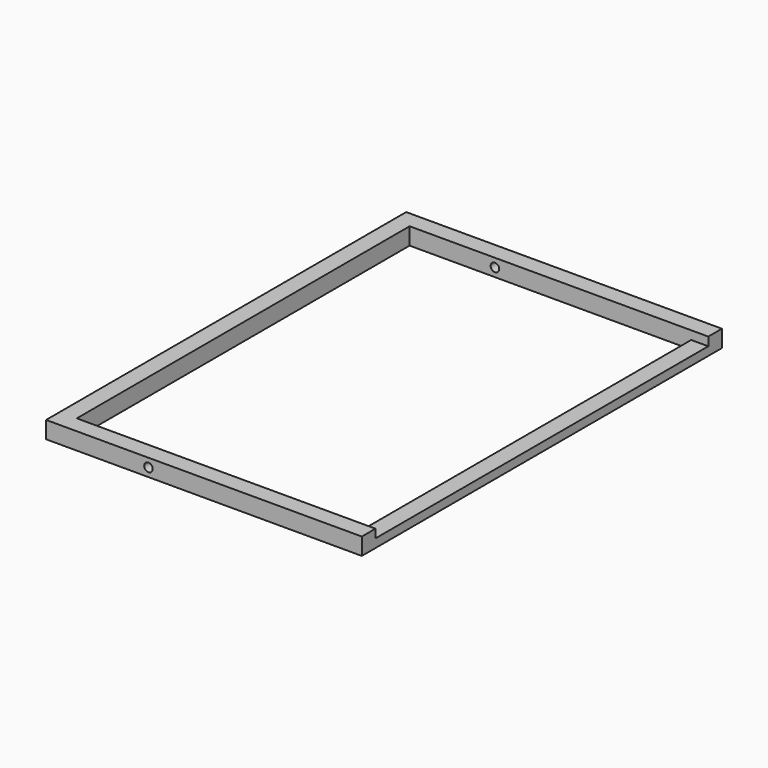
from build123d import *

# Parameters (mm, degrees)
F1_DEPTH = 25.4
F0_W     = 25.4
F0_H     = 619.125
F2_DEPTH = 12.7
F3_R     = 6.35
F4_DEPTH = 762


with BuildPart() as f1:
    # F0 (on Top) → F1 (new body)
    with BuildSketch(Plane.XY):
        Polygon((234.95, 334.9625), (-234.95, 334.9625), (-234.95, -334.9625), (234.95, -334.9625), (234.95, -309.5625), (209.55, -309.5625), (-209.55, -309.5625), (-209.55, 309.5625), (209.55, 309.5625), (234.95, 309.5625), align=None)
    extrude(amount=F1_DEPTH)

    # F0 (on Top) → F2 (join)
    with BuildSketch(Plane.XY):
        with Locations((222.25, 0)):
            Rectangle(F0_W, F0_H)
    extrude(amount=F2_DEPTH)

    # F3 (on face) → F4 (cut)
    with BuildSketch(Plane.XZ.offset(334.9625)):
        with Locations((-82.55, 12.7)):
            Circle(F3_R)
    extrude(amount=-F4_DEPTH, mode=Mode.SUBTRACT)


solid = f1.part
